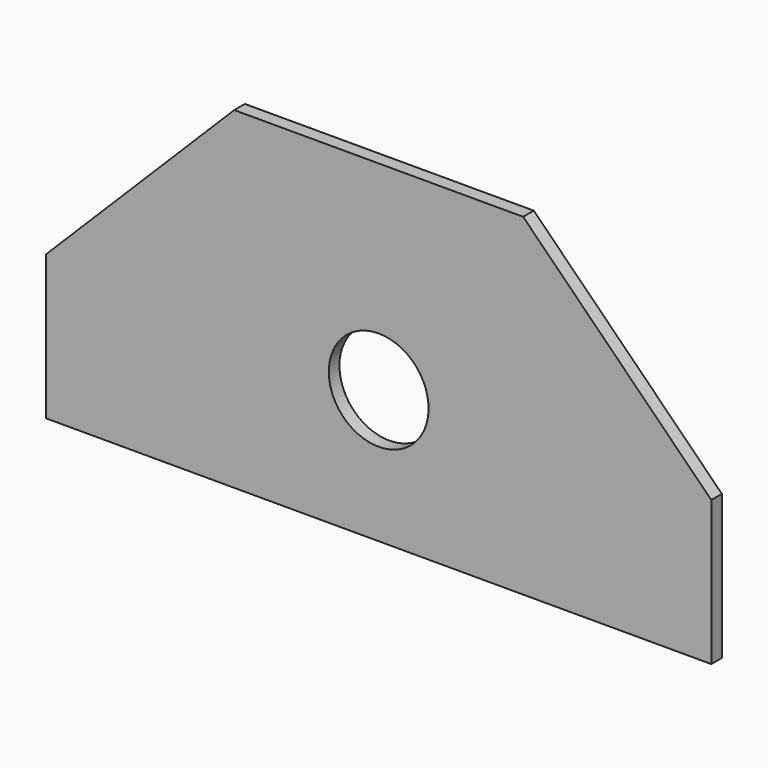
from build123d import *

# Parameters (mm, degrees)
F1_DEPTH = 1.27


with BuildPart() as f1:
    # F0 (on Front) → F1 (new body)
    with BuildSketch(Plane.XZ):
        with BuildLine():
            Line((-31.75, 13.789488), (-31.75, 0))
            Line((-31.75, 0), (0, 0))
            Line((0, 0), (0, 7.9375))
            ThreePointArc((0, 7.9375), (-4.7625, 12.7), (0, 17.4625))
            Line((0, 17.4625), (0, 31.75))
            Line((0, 31.75), (-13.789488, 31.75))
            Line((-13.789488, 31.75), (-31.75, 13.789488))
        make_face()
        with BuildLine():
            Line((0, 7.9375), (0, 0))
            Line((0, 0), (31.75, 0))
            Line((31.75, 0), (31.75, 13.789488))
            Line((31.75, 13.789488), (13.789488, 31.75))
            Line((13.789488, 31.75), (0, 31.75))
            Line((0, 31.75), (0, 17.4625))
            ThreePointArc((0, 17.4625), (4.7625, 12.7), (0, 7.9375))
        make_face()
    extrude(amount=F1_DEPTH)


solid = f1.part
